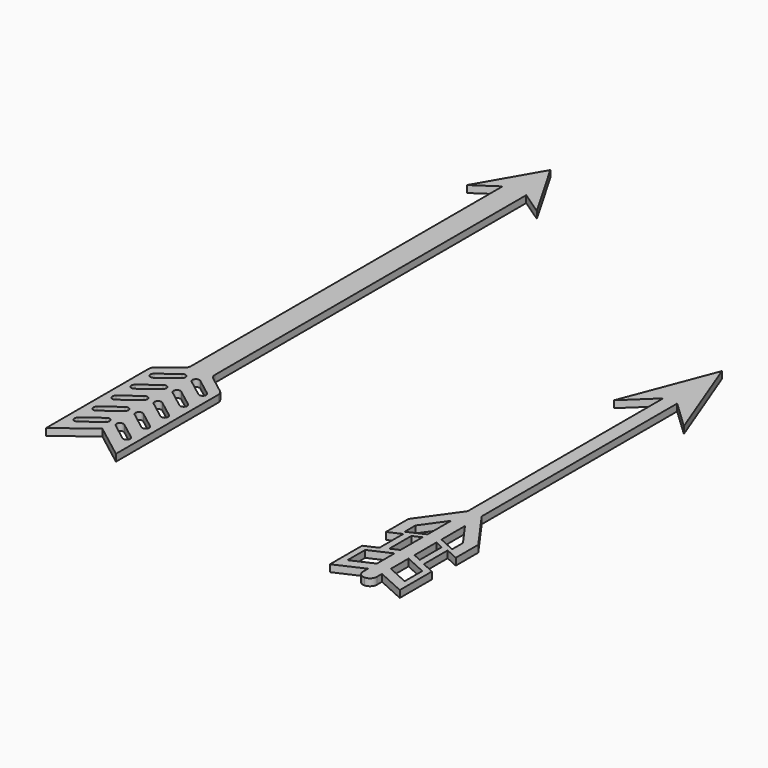
from build123d import *

# Parameters (mm, degrees)
F1_DEPTH = 3.175
F3_DEPTH = 3.175


with BuildPart() as f1:
    # F0 (on Top) → F1 (new body)
    with BuildSketch(Plane.XY):
        with BuildLine():
            Line((5.3975, 128.721537), (-5.3975, 128.721537))
            Line((-5.3975, 128.721537), (-5.3975, -48.223471))
            ThreePointArc((-5.3975, -48.223471), (-5.726704, -49.631331), (-6.646048, -50.74724))
            Line((-6.646048, -50.74724), (-14.626452, -56.83887))
            ThreePointArc((-14.626452, -56.83887), (-15.545796, -57.954779), (-15.875, -59.362639))
            Line((-15.875, -59.362639), (-15.875, -117.547738))
            Line((-15.875, -117.547738), (0, -105.429976))
            Line((0, -105.429976), (15.875, -117.547738))
            Line((15.875, -117.547738), (15.875, -59.362639))
            ThreePointArc((15.875, -59.362639), (15.545796, -57.954779), (14.626452, -56.83887))
            Line((14.626452, -56.83887), (6.646048, -50.74724))
            ThreePointArc((6.646048, -50.74724), (5.726704, -49.631331), (5.3975, -48.223471))
            Line((5.3975, -48.223471), (5.3975, 128.721537))
        make_face()
        with BuildLine():
            Line((-12.075726, -104.168092), (-4.138226, -98.109211))
            ThreePointArc((-4.138226, -98.109211), (-1.913116, -98.407869), (-2.211774, -100.63298))
            Line((-2.211774, -100.63298), (-10.149274, -106.69186))
            ThreePointArc((-10.149274, -106.69186), (-12.374384, -106.393202), (-12.075726, -104.168092))
        make_face(mode=Mode.SUBTRACT)
        with BuildLine():
            Line((-12.075726, -93.373092), (-4.138226, -87.314211))
            ThreePointArc((-4.138226, -87.314211), (-1.913116, -87.612869), (-2.211774, -89.83798))
            Line((-2.211774, -89.83798), (-10.149274, -95.89686))
            ThreePointArc((-10.149274, -95.89686), (-12.374384, -95.598202), (-12.075726, -93.373092))
        make_face(mode=Mode.SUBTRACT)
        with BuildLine():
            Line((-12.075726, -82.578092), (-4.138226, -76.519211))
            ThreePointArc((-4.138226, -76.519211), (-1.913116, -76.817869), (-2.211774, -79.04298))
            Line((-2.211774, -79.04298), (-10.149274, -85.10186))
            ThreePointArc((-10.149274, -85.10186), (-12.374384, -84.803202), (-12.075726, -82.578092))
        make_face(mode=Mode.SUBTRACT)
        with BuildLine():
            Line((-12.075726, -71.783092), (-4.138226, -65.724211))
            ThreePointArc((-4.138226, -65.724211), (-1.913116, -66.022869), (-2.211774, -68.24798))
            Line((-2.211774, -68.24798), (-10.149274, -74.30686))
            ThreePointArc((-10.149274, -74.30686), (-12.374384, -74.008202), (-12.075726, -71.783092))
        make_face(mode=Mode.SUBTRACT)
        with BuildLine():
            Line((-12.075726, -60.988092), (-4.138226, -54.929211))
            ThreePointArc((-4.138226, -54.929211), (-1.913116, -55.227869), (-2.211774, -57.45298))
            Line((-2.211774, -57.45298), (-10.149274, -63.51186))
            ThreePointArc((-10.149274, -63.51186), (-12.374384, -63.213202), (-12.075726, -60.988092))
        make_face(mode=Mode.SUBTRACT)
        with BuildLine():
            ThreePointArc((2.211774, -100.63298), (1.913116, -98.407869), (4.138226, -98.109211))
            Line((4.138226, -98.109211), (12.075726, -104.168092))
            ThreePointArc((12.075726, -104.168092), (12.374384, -106.393202), (10.149274, -106.69186))
            Line((10.149274, -106.69186), (2.211774, -100.63298))
        make_face(mode=Mode.SUBTRACT)
        with BuildLine():
            ThreePointArc((2.211774, -89.83798), (1.913116, -87.612869), (4.138226, -87.314211))
            Line((4.138226, -87.314211), (12.075726, -93.373092))
            ThreePointArc((12.075726, -93.373092), (12.374384, -95.598202), (10.149274, -95.89686))
            Line((10.149274, -95.89686), (2.211774, -89.83798))
        make_face(mode=Mode.SUBTRACT)
        with BuildLine():
            ThreePointArc((12.075726, -82.578092), (12.374384, -84.803202), (10.149274, -85.10186))
            Line((10.149274, -85.10186), (2.211774, -79.04298))
            ThreePointArc((2.211774, -79.04298), (1.913116, -76.817869), (4.138226, -76.519211))
            Line((4.138226, -76.519211), (12.075726, -82.578092))
        make_face(mode=Mode.SUBTRACT)
        with BuildLine():
            ThreePointArc((2.211774, -68.24798), (1.913116, -66.022869), (4.138226, -65.724211))
            Line((4.138226, -65.724211), (12.075726, -71.783092))
            ThreePointArc((12.075726, -71.783092), (12.374384, -74.008202), (10.149274, -74.30686))
            Line((10.149274, -74.30686), (2.211774, -68.24798))
        make_face(mode=Mode.SUBTRACT)
        with BuildLine():
            ThreePointArc((12.075726, -60.988092), (12.374384, -63.213202), (10.149274, -63.51186))
            Line((10.149274, -63.51186), (2.211774, -57.45298))
            ThreePointArc((2.211774, -57.45298), (1.913116, -55.227869), (4.138226, -54.929211))
            Line((4.138226, -54.929211), (12.075726, -60.988092))
        make_face(mode=Mode.SUBTRACT)
        Polygon((15.875, 121.634421), (0, 149.152262), (-15.875, 121.634421), (-5.3975, 128.721537), (5.3975, 128.721537), align=None)
        Polygon((15.875, 121.634421), (0, 149.152262), (-15.875, 121.634421), (-5.3975, 128.721537), (5.3975, 128.721537), align=None)
        with BuildLine():
            Line((5.3975, 128.721537), (-5.3975, 128.721537))
            Line((-5.3975, 128.721537), (-5.3975, -48.223471))
            ThreePointArc((-5.3975, -48.223471), (-5.726704, -49.631331), (-6.646048, -50.74724))
            Line((-6.646048, -50.74724), (-14.626452, -56.83887))
            ThreePointArc((-14.626452, -56.83887), (-15.545796, -57.954779), (-15.875, -59.362639))
            Line((-15.875, -59.362639), (-15.875, -117.547738))
            Line((-15.875, -117.547738), (0, -105.429976))
            Line((0, -105.429976), (15.875, -117.547738))
            Line((15.875, -117.547738), (15.875, -59.362639))
            ThreePointArc((15.875, -59.362639), (15.545796, -57.954779), (14.626452, -56.83887))
            Line((14.626452, -56.83887), (6.646048, -50.74724))
            ThreePointArc((6.646048, -50.74724), (5.726704, -49.631331), (5.3975, -48.223471))
            Line((5.3975, -48.223471), (5.3975, 128.721537))
        make_face()
        with BuildLine():
            Line((-12.075726, -104.168092), (-4.138226, -98.109211))
            ThreePointArc((-4.138226, -98.109211), (-1.913116, -98.407869), (-2.211774, -100.63298))
            Line((-2.211774, -100.63298), (-10.149274, -106.69186))
            ThreePointArc((-10.149274, -106.69186), (-12.374384, -106.393202), (-12.075726, -104.168092))
        make_face(mode=Mode.SUBTRACT)
        with BuildLine():
            Line((-12.075726, -93.373092), (-4.138226, -87.314211))
            ThreePointArc((-4.138226, -87.314211), (-1.913116, -87.612869), (-2.211774, -89.83798))
            Line((-2.211774, -89.83798), (-10.149274, -95.89686))
            ThreePointArc((-10.149274, -95.89686), (-12.374384, -95.598202), (-12.075726, -93.373092))
        make_face(mode=Mode.SUBTRACT)
        with BuildLine():
            Line((-12.075726, -82.578092), (-4.138226, -76.519211))
            ThreePointArc((-4.138226, -76.519211), (-1.913116, -76.817869), (-2.211774, -79.04298))
            Line((-2.211774, -79.04298), (-10.149274, -85.10186))
            ThreePointArc((-10.149274, -85.10186), (-12.374384, -84.803202), (-12.075726, -82.578092))
        make_face(mode=Mode.SUBTRACT)
        with BuildLine():
            Line((-12.075726, -71.783092), (-4.138226, -65.724211))
            ThreePointArc((-4.138226, -65.724211), (-1.913116, -66.022869), (-2.211774, -68.24798))
            Line((-2.211774, -68.24798), (-10.149274, -74.30686))
            ThreePointArc((-10.149274, -74.30686), (-12.374384, -74.008202), (-12.075726, -71.783092))
        make_face(mode=Mode.SUBTRACT)
        with BuildLine():
            Line((-12.075726, -60.988092), (-4.138226, -54.929211))
            ThreePointArc((-4.138226, -54.929211), (-1.913116, -55.227869), (-2.211774, -57.45298))
            Line((-2.211774, -57.45298), (-10.149274, -63.51186))
            ThreePointArc((-10.149274, -63.51186), (-12.374384, -63.213202), (-12.075726, -60.988092))
        make_face(mode=Mode.SUBTRACT)
        with BuildLine():
            ThreePointArc((2.211774, -100.63298), (1.913116, -98.407869), (4.138226, -98.109211))
            Line((4.138226, -98.109211), (12.075726, -104.168092))
            ThreePointArc((12.075726, -104.168092), (12.374384, -106.393202), (10.149274, -106.69186))
            Line((10.149274, -106.69186), (2.211774, -100.63298))
        make_face(mode=Mode.SUBTRACT)
        with BuildLine():
            ThreePointArc((2.211774, -89.83798), (1.913116, -87.612869), (4.138226, -87.314211))
            Line((4.138226, -87.314211), (12.075726, -93.373092))
            ThreePointArc((12.075726, -93.373092), (12.374384, -95.598202), (10.149274, -95.89686))
            Line((10.149274, -95.89686), (2.211774, -89.83798))
        make_face(mode=Mode.SUBTRACT)
        with BuildLine():
            ThreePointArc((12.075726, -82.578092), (12.374384, -84.803202), (10.149274, -85.10186))
            Line((10.149274, -85.10186), (2.211774, -79.04298))
            ThreePointArc((2.211774, -79.04298), (1.913116, -76.817869), (4.138226, -76.519211))
            Line((4.138226, -76.519211), (12.075726, -82.578092))
        make_face(mode=Mode.SUBTRACT)
        with BuildLine():
            ThreePointArc((2.211774, -68.24798), (1.913116, -66.022869), (4.138226, -65.724211))
            Line((4.138226, -65.724211), (12.075726, -71.783092))
            ThreePointArc((12.075726, -71.783092), (12.374384, -74.008202), (10.149274, -74.30686))
            Line((10.149274, -74.30686), (2.211774, -68.24798))
        make_face(mode=Mode.SUBTRACT)
        with BuildLine():
            ThreePointArc((12.075726, -60.988092), (12.374384, -63.213202), (10.149274, -63.51186))
            Line((10.149274, -63.51186), (2.211774, -57.45298))
            ThreePointArc((2.211774, -57.45298), (1.913116, -55.227869), (4.138226, -54.929211))
            Line((4.138226, -54.929211), (12.075726, -60.988092))
        make_face(mode=Mode.SUBTRACT)
    extrude(amount=F1_DEPTH)


with BuildPart() as f3:
    # F2 (on Top) → F3 (new body)
    with BuildSketch(Plane.XY):
        with BuildLine():
            Line((128.248781, 25.06035), (140.948781, 37.115315))
            Line((140.948781, 37.115315), (140.948781, -73.974198))
            Line((140.948781, -73.974198), (128.248781, -91.78458))
            Line((128.248781, -91.78458), (128.248781, -104.577481))
            Line((128.248781, -104.577481), (134.030593, -101.952))
            Line((134.030593, -101.952), (134.030593, -115.483089))
            Line((134.030593, -115.483089), (128.248781, -118.108571))
            Line((128.248781, -118.108571), (128.248781, -136.387189))
            Line((128.248781, -136.387189), (140.948781, -130.620204))
            Line((140.948781, -130.620204), (140.948781, -133.503697))
            ThreePointArc((140.948781, -133.503697), (141.878717, -135.748761), (144.123781, -136.678697))
            ThreePointArc((144.123781, -136.678697), (146.368845, -135.748761), (147.298781, -133.503697))
            Line((147.298781, -133.503697), (147.298781, -130.620204))
            Line((147.298781, -130.620204), (159.998781, -136.387189))
            Line((159.998781, -136.387189), (159.998781, -118.108571))
            Line((159.998781, -118.108571), (154.216969, -115.483089))
            Line((154.216969, -115.483089), (154.216969, -101.952))
            Line((154.216969, -101.952), (159.998781, -104.577481))
            Line((159.998781, -104.577481), (159.998781, -91.78458))
            Line((159.998781, -91.78458), (147.298781, -73.974198))
            Line((147.298781, -73.974198), (147.298781, 37.115315))
            Line((147.298781, 37.115315), (159.998781, 25.06035))
            Line((159.998781, 25.06035), (144.123781, 66.521303))
            Line((144.123781, 66.521303), (128.248781, 25.06035))
        make_face()
        Polygon((131.139687, -119.979414), (140.948781, -115.525171), (140.948781, -125.582945), (131.139687, -130.037189), align=None, mode=Mode.SUBTRACT)
        Polygon((137.205593, -113.857031), (137.205593, -101.36124), (140.948781, -99.661483), (140.948781, -112.157274), align=None, mode=Mode.SUBTRACT)
        Polygon((133.328781, -94.144035), (140.948781, -83.457805), (140.948781, -96.82791), (133.328781, -100.288101), align=None, mode=Mode.SUBTRACT)
        Polygon((151.041969, -113.857031), (147.298781, -112.157274), (147.298781, -99.661483), (151.041969, -101.36124), align=None, mode=Mode.SUBTRACT)
        Polygon((154.918781, -100.288101), (147.298781, -96.82791), (147.298781, -83.457805), (154.918781, -94.144035), align=None, mode=Mode.SUBTRACT)
        Polygon((157.107875, -119.979414), (157.107875, -130.037189), (147.298781, -125.582945), (147.298781, -115.525171), align=None, mode=Mode.SUBTRACT)
    extrude(amount=F3_DEPTH)


solid = Compound([f1.part, f3.part])
